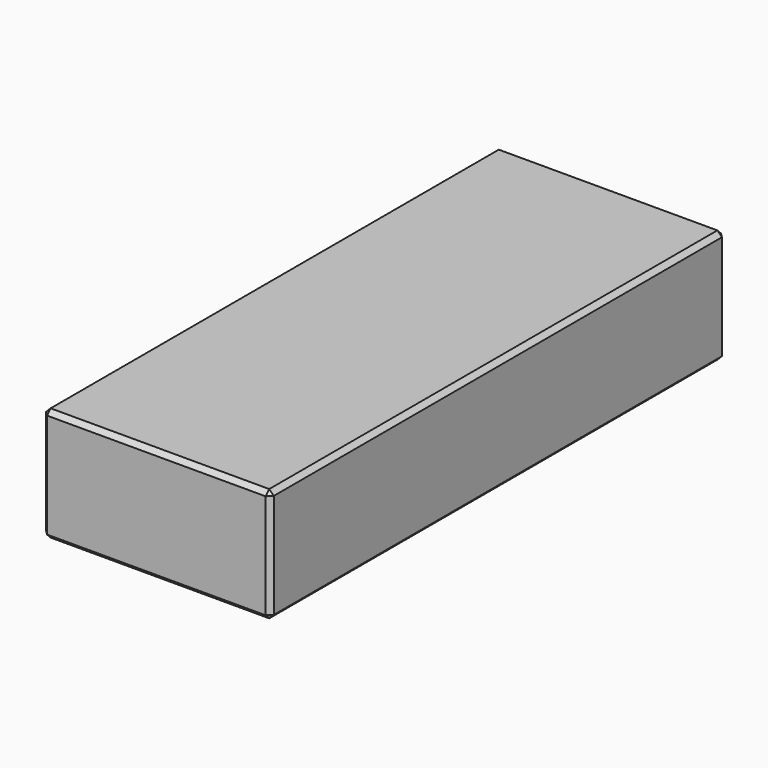
from build123d import *

# Parameters (mm, degrees)
F0_W     = 50
F0_H     = 25
F1_DEPTH = 62.5
F2_SIZE  = 1


with BuildPart() as f1:
    # F0 (on Front) → F1 (new body, symmetric)
    with BuildSketch(Plane.XZ):
        Rectangle(F0_W, F0_H)
    extrude(amount=F1_DEPTH, both=True)

    # F2
    f2_edges = [f1.edges().sort_by_distance(p)[0] for p in [
        (25, 0, 12.5),
        (25, -62.5, 0),
        (0, -62.5, 12.5),
        (-25, -62.5, 0),
        (0, -62.5, -12.5),
        (25, 0, -12.5),
        (-25, 0, 12.5),
        (-25, 0, -12.5),
        (0, 62.5, -12.5),
        (-25, 62.5, 0),
        (0, 62.5, 12.5),
        (25, 62.5, 0),
    ]]
    chamfer(f2_edges, length=F2_SIZE)


solid = f1.part
